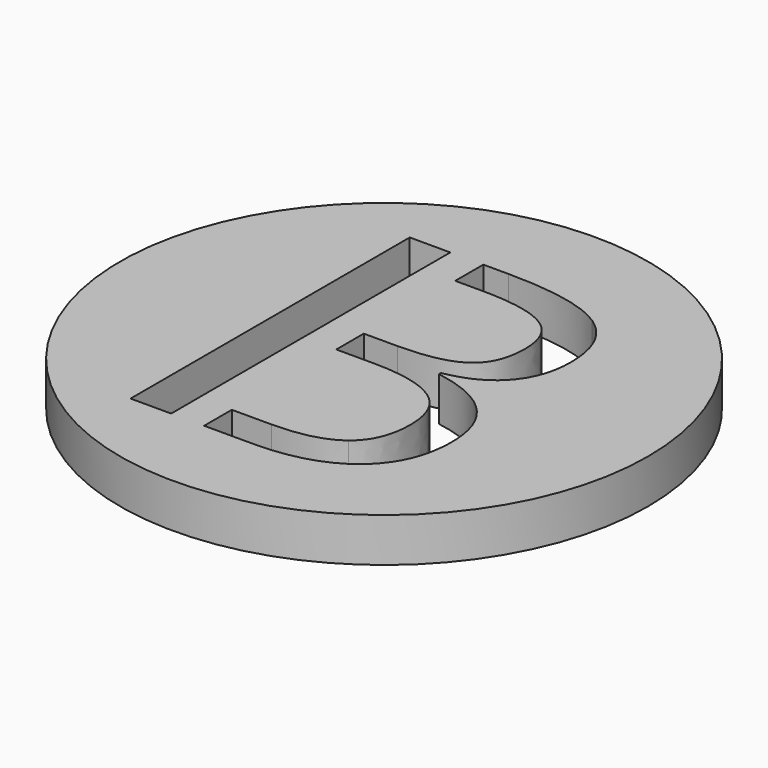
from build123d import *

# Parameters (mm, degrees)
F0_R     = 12
F1_DEPTH = 2
F3_DEPTH = 25


with BuildPart() as f1:
    # F0 (on Top) → F1 (new body)
    with BuildSketch(Plane.XY):
        Circle(F0_R)
    extrude(amount=F1_DEPTH)

    # F2 (on face) → F3 (cut)
    with BuildSketch(Plane.XY.offset(2)):
        Polygon((-3.2808869146, 6.2673611111), (-3.2808869146, 7.8645833333), (-5.1267361111, 7.8645833333), (-5.1267361111, -8), (-3.2808869146, -8), (-3.2808869146, -6.4270833333), (-3.2829861111, -6.4270833333), (-3.2829861111, -0.4895833333), (-3.2808869146, -0.4895833333), (-3.2808869146, 1.0729166667), (-3.2829861111, 1.0729166667), (-3.2829861111, 6.2673611111), align=None)
        with BuildLine():
            Line((-0.6440972222, 7.8645833333), (-1.7808869146, 7.8645833333))
            Line((-1.7808869146, 7.8645833333), (-1.7808869146, 6.2673611111))
            Line((-1.7808869146, 6.2673611111), (-0.5677083333, 6.2673611111))
            add(Edge.make_bspline(
                [(2.4704861111, 5.6770833333), (1.515625, 6.2673611111), (-0.5677083333, 6.2673611111)],
                knots=[0, 0, 0, 1, 1, 1], degree=2))
            add(Edge.make_bspline(
                [(3.4253472222, 3.75), (3.4253472222, 5.0868055556), (2.4704861111, 5.6770833333)],
                knots=[0, 0, 0, 1, 1, 1], degree=2))
            add(Edge.make_bspline(
                [(2.5677083333, 1.6857638889), (3.4253472222, 2.2986111111), (3.4253472222, 3.75)],
                knots=[0, 0, 0, 1, 1, 1], degree=2))
            add(Edge.make_bspline(
                [(-0.2447916667, 1.0729166667), (1.7100694444, 1.0729166667), (2.5677083333, 1.6857638889)],
                knots=[0, 0, 0, 1, 1, 1], degree=2))
            Line((-0.2447916667, 1.0729166667), (-1.7808869146, 1.0729166667))
            Line((-1.7808869146, 1.0729166667), (-1.7808869146, -0.4895833333))
            Line((-1.7808869146, -0.4895833333), (-0.1232638889, -0.4895833333))
            add(Edge.make_bspline(
                [(2.8975694444, -1.1840277778), (1.9045138889, -0.4895833333), (-0.1232638889, -0.4895833333)],
                knots=[0, 0, 0, 1, 1, 1], degree=2))
            add(Edge.make_bspline(
                [(3.890625, -3.3541666667), (3.890625, -1.8784722222), (2.8975694444, -1.1840277778)],
                knots=[0, 0, 0, 1, 1, 1], degree=2))
            add(Edge.make_bspline(
                [(2.9201388889, -5.6840277778), (3.890625, -4.9409722222), (3.890625, -3.3541666667)],
                knots=[0, 0, 0, 1, 1, 1], degree=2))
            add(Edge.make_bspline(
                [(0.0295138889, -6.4270833333), (1.9496527778, -6.4270833333), (2.9201388889, -5.6840277778)],
                knots=[0, 0, 0, 1, 1, 1], degree=2))
            Line((0.0295138889, -6.4270833333), (-1.7808869146, -6.4270833333))
            Line((-1.7808869146, -6.4270833333), (-1.7808869146, -8))
            Line((-1.7808869146, -8), (0.4079861111, -8))
            add(Edge.make_bspline(
                [(4.4288194444, -6.8055555556), (2.9913194444, -8), (0.4079861111, -8)],
                knots=[0, 0, 0, 1, 1, 1], degree=2))
            add(Edge.make_bspline(
                [(5.8663194444, -3.4861111111), (5.8663194444, -5.6111111111), (4.4288194444, -6.8055555556)],
                knots=[0, 0, 0, 1, 1, 1], degree=2))
            add(Edge.make_bspline(
                [(2.2517361111, 0.3125), (5.8663194444, -0.3055555556), (5.8663194444, -3.4861111111)],
                knots=[0, 0, 0, 1, 1, 1], degree=2))
            Line((2.2517361111, 0.3125), (2.2517361111, 0.4201388889))
            add(Edge.make_bspline(
                [(4.5486111111, 1.6076388889), (3.7621527778, 0.6909722222), (2.2517361111, 0.4201388889)],
                knots=[0, 0, 0, 1, 1, 1], degree=2))
            add(Edge.make_bspline(
                [(5.3350694444, 3.9375), (5.3350694444, 2.5243055556), (4.5486111111, 1.6076388889)],
                knots=[0, 0, 0, 1, 1, 1], degree=2))
            add(Edge.make_bspline(
                [(3.9236111111, 6.9201388889), (5.3350694444, 5.9756944444), (5.3350694444, 3.9375)],
                knots=[0, 0, 0, 1, 1, 1], degree=2))
            add(Edge.make_bspline(
                [(-0.6440972222, 7.8645833333), (2.5121527778, 7.8645833333), (3.9236111111, 6.9201388889)],
                knots=[0, 0, 0, 1, 1, 1], degree=2))
        make_face()
    extrude(amount=-F3_DEPTH, mode=Mode.SUBTRACT)


solid = f1.part
